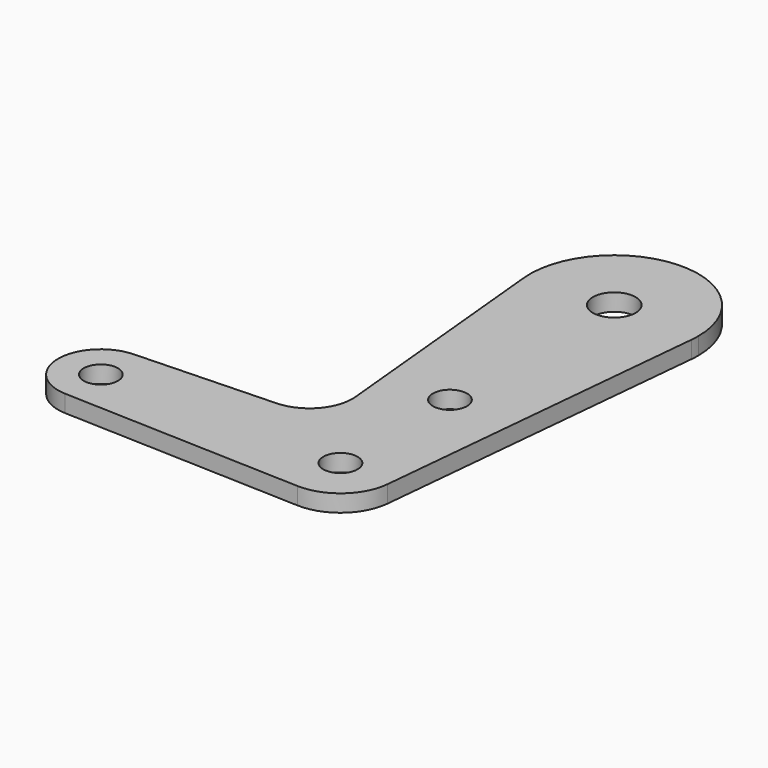
from build123d import *

# Parameters (mm, degrees)
F0_R     = 3.175
F0_R_2   = 3.96875
F1_DEPTH = 3.175


with BuildPart() as f1:
    # F0 (on Top) → F1 (new body)
    with BuildSketch(Plane.XY):
        with BuildLine():
            ThreePointArc((9.481007, -0.9144), (9.513995, -0.457729), (9.525, 0))
            ThreePointArc((9.525, 0), (-6.613827, 6.854408), (-0.340179, -9.518923))
            ThreePointArc((-0.340179, -9.518923), (6.276794, -7.16432), (9.481007, -0.9144))
        make_face()
        Circle(F0_R, mode=Mode.SUBTRACT)
        with BuildLine():
            ThreePointArc((-0.340179, -9.518923), (-6.613827, 6.854408), (9.525, 0))
            ThreePointArc((9.525, 0), (9.513995, -0.457729), (9.481007, -0.9144))
            Line((9.481007, -0.9144), (15.548852, 62.000384))
            ThreePointArc((15.548852, 62.000384), (0, 47.879), (-15.548852, 62.000384))
            Line((-15.548852, 62.000384), (-11.261894, 17.550827))
            ThreePointArc((-11.261894, 17.550827), (-13.192467, 11.558166), (-18.879252, 8.856391))
            Line((-18.879252, 8.856391), (-44.733482, 7.932436))
            ThreePointArc((-44.733482, 7.932436), (-38.938477, 5.712007), (-36.5125, 0))
            ThreePointArc((-36.5125, 0), (-38.938477, -5.712007), (-44.733482, -7.932436))
            Line((-44.733482, -7.932436), (-0.340179, -9.518923))
        make_face()
        with Locations((0, 25.4)):
            Circle(F0_R, mode=Mode.SUBTRACT)
        with BuildLine():
            ThreePointArc((-44.733482, 7.932436), (-52.3875, 0), (-44.733482, -7.932436))
            ThreePointArc((-44.733482, -7.932436), (-38.938477, -5.712007), (-36.5125, 0))
            ThreePointArc((-36.5125, 0), (-38.938477, 5.712007), (-44.733482, 7.932436))
        make_face()
        with Locations((-44.45, 0)):
            Circle(F0_R, mode=Mode.SUBTRACT)
        with BuildLine():
            ThreePointArc((-15.548852, 62.000384), (0, 47.879), (15.548852, 62.000384))
            ThreePointArc((15.548852, 62.000384), (15.602953, 62.749325), (15.621, 63.5))
            ThreePointArc((15.621, 63.5), (-0.750675, 79.102953), (-15.548852, 62.000384))
        make_face()
        with Locations((0, 63.5)):
            Circle(F0_R_2, mode=Mode.SUBTRACT)
    extrude(amount=F1_DEPTH)


solid = f1.part
